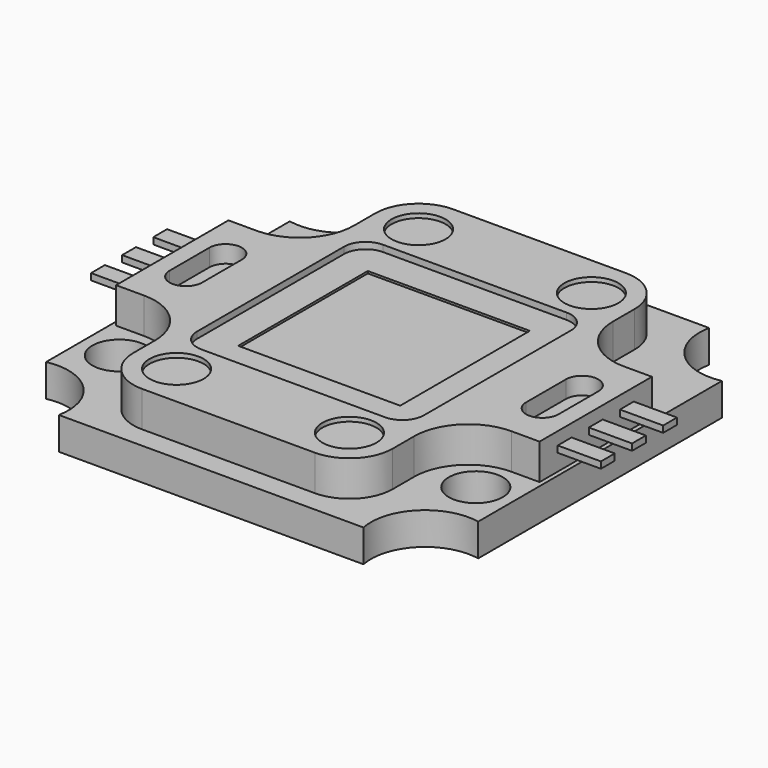
from build123d import *

# Parameters (mm, degrees)
F1_DEPTH  = 1.5
F3_DEPTH  = 1.65
F5_DEPTH  = 0.3
F6_R      = 1.25
F7_DEPTH  = 0.2
F8_W      = 0.8
F8_H      = 0.3
F9_DEPTH  = 2
F11_R     = 1.25
F12_DEPTH = 1.5
F14_DEPTH = 0.8
F15_W     = 7.5
F15_H     = 7.5
F16_DEPTH = 0.1


with BuildPart() as f1:
    # F0 (on Top) → F1 (new body)
    with BuildSketch(Plane.XY):
        with BuildLine():
            ThreePointArc((-7.0505102572, 10), (-7.732233047, 7.732233047), (-10, 7.0505102572))
            Line((-10, 7.0505102572), (-10, -7.0505102572))
            ThreePointArc((-10, -7.0505102572), (-7.732233047, -7.732233047), (-7.0505102572, -10))
            Line((-7.0505102572, -10), (7.0505102572, -10))
            ThreePointArc((7.0505102572, -10), (7.732233047, -7.732233047), (10, -7.0505102572))
            Line((10, -7.0505102572), (10, 7.0505102572))
            ThreePointArc((10, 7.0505102572), (7.732233047, 7.732233047), (7.0505102572, 10))
            Line((7.0505102572, 10), (-7.0505102572, 10))
        make_face()
    extrude(amount=F1_DEPTH)

    # F2 (on face) → F3 (join)
    with BuildSketch(Plane.XY.offset(1.5)):
        with BuildLine():
            Line((-6, 7), (-6, 5.75))
            ThreePointArc((-6, 5.75), (-6.732233047, 3.982233047), (-8.5, 3.25))
            Line((-8.5, 3.25), (-9.8, 3.25))
            Line((-9.8, 3.25), (-9.8, -3.25))
            Line((-9.8, -3.25), (-8.5, -3.25))
            ThreePointArc((-8.5, -3.25), (-6.732233047, -3.982233047), (-6, -5.75))
            Line((-6, -5.75), (-6, -7))
            ThreePointArc((-6, -7), (-5.4142135624, -8.4142135624), (-4, -9))
            Line((-4, -9), (4, -9))
            ThreePointArc((4, -9), (5.4142135624, -8.4142135624), (6, -7))
            Line((6, -7), (6, -5.75))
            ThreePointArc((6, -5.75), (6.732233047, -3.982233047), (8.5, -3.25))
            Line((8.5, -3.25), (9.8, -3.25))
            Line((9.8, -3.25), (9.8, 3.25))
            Line((9.8, 3.25), (8.5, 3.25))
            ThreePointArc((8.5, 3.25), (6.732233047, 3.982233047), (6, 5.75))
            Line((6, 5.75), (6, 7))
            ThreePointArc((6, 7), (5.4142135624, 8.4142135624), (4, 9))
            Line((4, 9), (-4, 9))
            ThreePointArc((-4, 9), (-5.4142135624, 8.4142135624), (-6, 7))
        make_face()
    extrude(amount=F3_DEPTH)

    # F4 (on face) → F5 (cut)
    with BuildSketch(Plane.XY.offset(3.15)):
        with BuildLine():
            Line((4.25, 5.25), (-4.25, 5.25))
            ThreePointArc((-4.25, 5.25), (-4.9571067812, 4.9571067812), (-5.25, 4.25))
            Line((-5.25, 4.25), (-5.25, -4.25))
            ThreePointArc((-5.25, -4.25), (-4.9571067812, -4.9571067812), (-4.25, -5.25))
            Line((-4.25, -5.25), (4.25, -5.25))
            ThreePointArc((4.25, -5.25), (4.9571067812, -4.9571067812), (5.25, -4.25))
            Line((5.25, -4.25), (5.25, 4.25))
            ThreePointArc((5.25, 4.25), (4.9571067812, 4.9571067812), (4.25, 5.25))
        make_face()
    extrude(amount=-F5_DEPTH, mode=Mode.SUBTRACT)

    # F6 (on face) → F7 (cut)
    with BuildSketch(Plane.XY.offset(3.15)):
        with Locations((-4, 7)):
            Circle(F6_R)
        with Locations((4, 7)):
            Circle(F6_R)
        with Locations((-4, -7)):
            Circle(F6_R)
        with Locations((4, -7)):
            Circle(F6_R)
    extrude(amount=-F7_DEPTH, mode=Mode.SUBTRACT)

    # F8 (on face) → F9 (join)
    with BuildSketch(Plane(origin=(-9.8, 0, 0), x_dir=(0, -1, 0), z_dir=(-1, 0, 0))):
        with Locations((0, 2.4165040218)):
            Rectangle(F8_W, F8_H)
        with Locations((1.8, 2.4165040218)):
            Rectangle(F8_W, F8_H)
        with Locations((-1.8, 2.4165040218)):
            Rectangle(F8_W, F8_H)
    extrude(amount=F9_DEPTH)

    # F10: F1 across plane


with BuildPart() as f1_1:
    add(f1.part)
    add(f1.part.mirror(Plane.YZ))

    # F11 (on face) → F12 (cut, through all)
    with BuildSketch(Plane.XY.offset(1.5)):
        with Locations((-8.25, -5)):
            Circle(F11_R)
        with Locations((8.25, -5)):
            Circle(F11_R)
    extrude(amount=-F12_DEPTH, mode=Mode.SUBTRACT)

    # F13 (on face) → F14 (cut)
    with BuildSketch(Plane.XY.offset(3.15)):
        with BuildLine():
            ThreePointArc((-7.5, 1.15), (-8.25, 1.9), (-9, 1.15))
            Line((-9, 1.15), (-9, -1.15))
            ThreePointArc((-9, -1.15), (-8.25, -1.9), (-7.5, -1.15))
            Line((-7.5, -1.15), (-7.5, 1.15))
        make_face()
        with BuildLine():
            ThreePointArc((7.5, -1.15), (8.25, -1.9), (9, -1.15))
            Line((9, -1.15), (9, 1.15))
            ThreePointArc((9, 1.15), (8.25, 1.9), (7.5, 1.15))
            Line((7.5, 1.15), (7.5, -1.15))
        make_face()
    extrude(amount=-F14_DEPTH, mode=Mode.SUBTRACT)

    # F15 (on face) → F16 (cut)
    with BuildSketch(Plane.XY.offset(2.85)):
        Rectangle(F15_W, F15_H)
    extrude(amount=-F16_DEPTH, mode=Mode.SUBTRACT)


solid = f1_1.part
